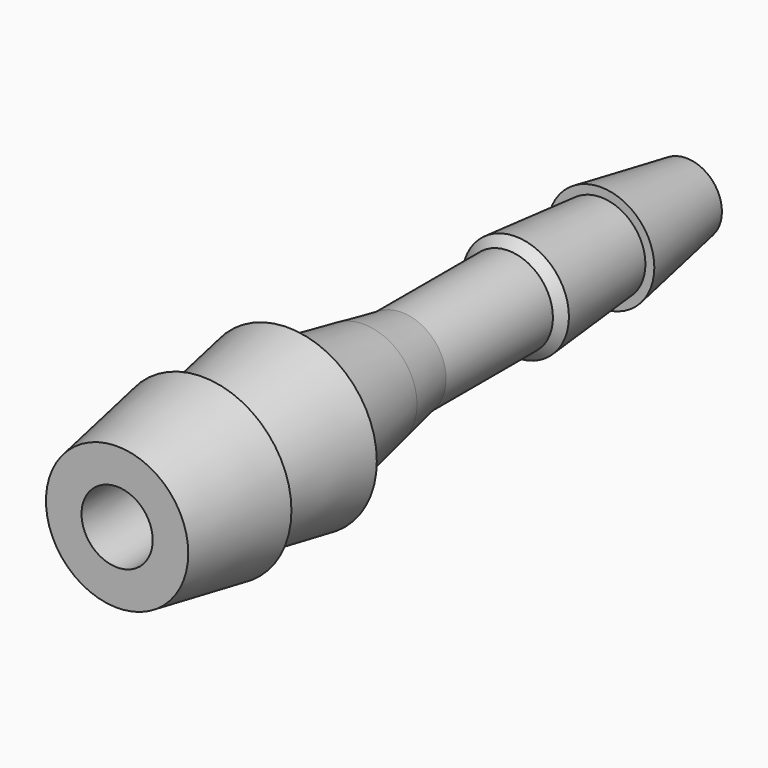
from build123d import *


with BuildPart() as f1:
    # F0 (on Top) → F1 (revolve)
    with BuildSketch(Plane.XY):
        Polygon((1, 10), (0.5, 10), (0.5, 0), (1, -10), (2, -10), (2.5, -7), (2, -7), (2.5, -4), (2, -4), (1.5, -1.337514), (1.25, 0), (1.25, 3.75), (1.5, 4), (1.25, 7), (1.5, 7), align=None)
    revolve(axis=Axis((0, 4.414729, 0), (0, -1, 0)))


solid = f1.part
